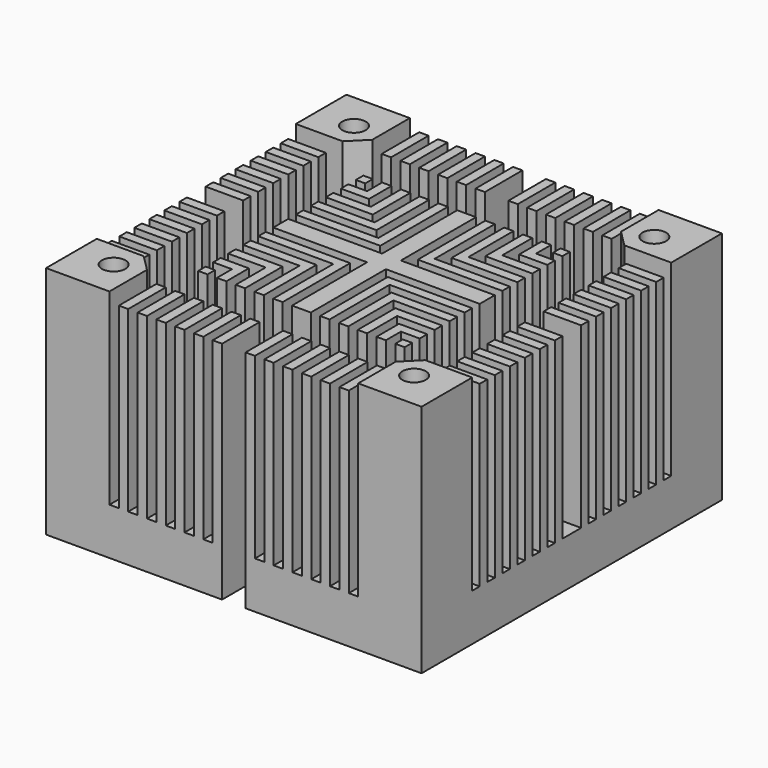
from build123d import *

# Parameters (mm, degrees)
PAD009_DEPTH          = 5
SKETCH015_W           = 2.75
SKETCH015_H           = 26.5
POCKET_DEPTH          = 5
MIRROREDSKETCH_W      = 2.75
MIRROREDSKETCH_H      = 26.5
POCKET001_DEPTH       = 5
SKETCH016_W           = 6.75
SKETCH016_H           = 6.75
PAD010_DEPTH          = 20
MIRROREDSKETCH001_W   = 6.75
MIRROREDSKETCH001_H   = 6.75
PAD011_DEPTH          = 20
MIRROREDSKETCH002_W   = 6.75
MIRROREDSKETCH002_H   = 6.75
PAD012_DEPTH          = 20
MIRROREDSKETCH003_W   = 6.75
MIRROREDSKETCH003_H   = 6.75
PAD013_DEPTH          = 20
SKETCH017_W           = 4
SKETCH017_H           = 1
SKETCH017_W_2         = 1
SKETCH017_H_2         = 5
PAD_DEPTH             = 19
MIRROREDSKETCH004_W   = 4
MIRROREDSKETCH004_H   = 1
MIRROREDSKETCH004_W_2 = 1
MIRROREDSKETCH004_H_2 = 5
PAD014_DEPTH          = 19
MIRROREDSKETCH005_W   = 4
MIRROREDSKETCH005_H   = 1
MIRROREDSKETCH005_W_2 = 1
MIRROREDSKETCH005_H_2 = 5
PAD015_DEPTH          = 19
MIRROREDSKETCH006_W   = 4
MIRROREDSKETCH006_H   = 1
MIRROREDSKETCH006_W_2 = 1
MIRROREDSKETCH006_H_2 = 5
PAD016_DEPTH          = 19
SKETCH_R              = 1.25
HOLE_DEPTH            = 10
HOLE_TIPS_R           = 1.25
MIRROREDSKETCH007_R   = 1.25
HOLE001_DEPTH         = 10
HOLE001_TIPS_R        = 1.25
MIRROREDSKETCH008_R   = 1.25
HOLE002_DEPTH         = 10
HOLE002_TIPS_R        = 1.25
MIRROREDSKETCH009_R   = 1.25
HOLE003_DEPTH         = 10
HOLE003_TIPS_R        = 1.25
POCKET002_DEPTH       = 20
POCKET003_DEPTH       = 20
POCKET004_DEPTH       = 20
POCKET005_DEPTH       = 20


with BuildPart() as part:
    # Sketch014 → Pad009 (new body)
    with BuildSketch(Plane.XY):
        Polygon((-1.25, -13.25), (-1.25, -20), (-20, -20), (-20, 20), (-1.25, 20), (-1.25, 13.25), (1.25, 13.25), (1.25, 20), (20, 20), (20, -20), (1.25, -20), (1.25, -13.25), align=None)
    extrude(amount=PAD009_DEPTH)

    # Sketch015 (on Face14 of Pad009) → Pocket (cut)
    with BuildSketch(Plane.XY.offset(5)):
        with Locations((-14.625, 0)):
            Rectangle(SKETCH015_W, SKETCH015_H)
    extrude(amount=-POCKET_DEPTH, mode=Mode.SUBTRACT)

    # MirroredSketch → Pocket001 (cut)
    with BuildSketch(Plane.XY.offset(5)):
        with Locations((14.625, 0)):
            Rectangle(MIRROREDSKETCH_W, MIRROREDSKETCH_H)
    extrude(amount=-POCKET001_DEPTH, mode=Mode.SUBTRACT)

    # Sketch016 (on Face14 of Pad009) → Pad010 (join)
    with BuildSketch(Plane.XY.offset(5)):
        with Locations((-16.625, 16.625)):
            Rectangle(SKETCH016_W, SKETCH016_H)
    extrude(amount=PAD010_DEPTH)

    # MirroredSketch001 → Pad011 (join)
    with BuildSketch(Plane.XY.offset(5)):
        with Locations((16.625, 16.625)):
            Rectangle(MIRROREDSKETCH001_W, MIRROREDSKETCH001_H)
    extrude(amount=PAD011_DEPTH)

    # MirroredSketch002 → Pad012 (join)
    with BuildSketch(Plane.XY.offset(5)):
        with Locations((16.625, -16.625)):
            Rectangle(MIRROREDSKETCH002_W, MIRROREDSKETCH002_H)
    extrude(amount=PAD012_DEPTH)

    # MirroredSketch003 → Pad013 (join)
    with BuildSketch(Plane.XY.offset(5)):
        with Locations((-16.625, -16.625)):
            Rectangle(MIRROREDSKETCH003_W, MIRROREDSKETCH003_H)
    extrude(amount=PAD013_DEPTH)

    # Sketch017 (on Face14 of Pad009) → Pad (join)
    with BuildSketch(Plane.XY.offset(5)):
        with Locations((-18, 11.75)):
            Rectangle(SKETCH017_W, SKETCH017_H)
        with Locations((-18, 9.75)):
            Rectangle(SKETCH017_W, SKETCH017_H)
        with Locations((-18, 7.75)):
            Rectangle(SKETCH017_W, SKETCH017_H)
        with Locations((-18, 5.75)):
            Rectangle(SKETCH017_W, SKETCH017_H)
        with Locations((-1.75, 17.5)):
            Rectangle(SKETCH017_W_2, SKETCH017_H_2)
        with Locations((-3.75, 17.5)):
            Rectangle(SKETCH017_W_2, SKETCH017_H_2)
        with Locations((-5.75, 17.5)):
            Rectangle(SKETCH017_W_2, SKETCH017_H_2)
        with Locations((-7.75, 17.5)):
            Rectangle(SKETCH017_W_2, SKETCH017_H_2)
        with Locations((-9.75, 17.5)):
            Rectangle(SKETCH017_W_2, SKETCH017_H_2)
        with Locations((-11.75, 17.5)):
            Rectangle(SKETCH017_W_2, SKETCH017_H_2)
        with Locations((-18, 3.75)):
            Rectangle(SKETCH017_W, SKETCH017_H)
        with Locations((-18, 1.75)):
            Rectangle(SKETCH017_W, SKETCH017_H)
        Polygon((-1, 1), (-1, 11), (0, 11), (0, 0), (-11, 0), (-11, 1), align=None)
        Polygon((-3, 11), (-2, 11), (-2, 2), (-11, 2), (-11, 3), (-3, 3), align=None)
        Polygon((-11, 5), (-11, 4), (-4, 4), (-4, 11), (-5, 11), (-5, 5), align=None)
        Polygon((-11, 6), (-6, 6), (-6, 11), (-7, 11), (-7, 7), (-11, 7), align=None)
        Polygon((-8, 11), (-8, 8), (-11, 8), (-11, 9), (-9, 9), (-9, 11), align=None)
        with Locations((-10.5, 10.5)):
            Rectangle(SKETCH017_W_2, SKETCH017_H)
    extrude(amount=PAD_DEPTH)

    # MirroredSketch004 → Pad014 (join)
    with BuildSketch(Plane.XY.offset(5)):
        with Locations((-18, -11.75)):
            Rectangle(MIRROREDSKETCH004_W, MIRROREDSKETCH004_H)
        with Locations((-18, -9.75)):
            Rectangle(MIRROREDSKETCH004_W, MIRROREDSKETCH004_H)
        with Locations((-18, -7.75)):
            Rectangle(MIRROREDSKETCH004_W, MIRROREDSKETCH004_H)
        with Locations((-18, -5.75)):
            Rectangle(MIRROREDSKETCH004_W, MIRROREDSKETCH004_H)
        with Locations((-1.75, -17.5)):
            Rectangle(MIRROREDSKETCH004_W_2, MIRROREDSKETCH004_H_2)
        with Locations((-3.75, -17.5)):
            Rectangle(MIRROREDSKETCH004_W_2, MIRROREDSKETCH004_H_2)
        with Locations((-5.75, -17.5)):
            Rectangle(MIRROREDSKETCH004_W_2, MIRROREDSKETCH004_H_2)
        with Locations((-7.75, -17.5)):
            Rectangle(MIRROREDSKETCH004_W_2, MIRROREDSKETCH004_H_2)
        with Locations((-9.75, -17.5)):
            Rectangle(MIRROREDSKETCH004_W_2, MIRROREDSKETCH004_H_2)
        with Locations((-11.75, -17.5)):
            Rectangle(MIRROREDSKETCH004_W_2, MIRROREDSKETCH004_H_2)
        with Locations((-18, -3.75)):
            Rectangle(MIRROREDSKETCH004_W, MIRROREDSKETCH004_H)
        with Locations((-18, -1.75)):
            Rectangle(MIRROREDSKETCH004_W, MIRROREDSKETCH004_H)
        Polygon((-1, -1), (-1, -11), (0, -11), (0, 0), (-11, 0), (-11, -1), align=None)
        Polygon((-3, -11), (-2, -11), (-2, -2), (-11, -2), (-11, -3), (-3, -3), align=None)
        Polygon((-11, -5), (-11, -4), (-4, -4), (-4, -11), (-5, -11), (-5, -5), align=None)
        Polygon((-11, -6), (-6, -6), (-6, -11), (-7, -11), (-7, -7), (-11, -7), align=None)
        Polygon((-8, -11), (-8, -8), (-11, -8), (-11, -9), (-9, -9), (-9, -11), align=None)
        with Locations((-10.5, -10.5)):
            Rectangle(MIRROREDSKETCH004_W_2, MIRROREDSKETCH004_H)
    extrude(amount=PAD014_DEPTH)

    # MirroredSketch005 → Pad015 (join)
    with BuildSketch(Plane.XY.offset(5)):
        with Locations((18, 11.75)):
            Rectangle(MIRROREDSKETCH005_W, MIRROREDSKETCH005_H)
        with Locations((18, 9.75)):
            Rectangle(MIRROREDSKETCH005_W, MIRROREDSKETCH005_H)
        with Locations((18, 7.75)):
            Rectangle(MIRROREDSKETCH005_W, MIRROREDSKETCH005_H)
        with Locations((18, 5.75)):
            Rectangle(MIRROREDSKETCH005_W, MIRROREDSKETCH005_H)
        with Locations((1.75, 17.5)):
            Rectangle(MIRROREDSKETCH005_W_2, MIRROREDSKETCH005_H_2)
        with Locations((3.75, 17.5)):
            Rectangle(MIRROREDSKETCH005_W_2, MIRROREDSKETCH005_H_2)
        with Locations((5.75, 17.5)):
            Rectangle(MIRROREDSKETCH005_W_2, MIRROREDSKETCH005_H_2)
        with Locations((7.75, 17.5)):
            Rectangle(MIRROREDSKETCH005_W_2, MIRROREDSKETCH005_H_2)
        with Locations((9.75, 17.5)):
            Rectangle(MIRROREDSKETCH005_W_2, MIRROREDSKETCH005_H_2)
        with Locations((11.75, 17.5)):
            Rectangle(MIRROREDSKETCH005_W_2, MIRROREDSKETCH005_H_2)
        with Locations((18, 3.75)):
            Rectangle(MIRROREDSKETCH005_W, MIRROREDSKETCH005_H)
        with Locations((18, 1.75)):
            Rectangle(MIRROREDSKETCH005_W, MIRROREDSKETCH005_H)
        Polygon((1, 1), (1, 11), (0, 11), (0, 0), (11, 0), (11, 1), align=None)
        Polygon((3, 11), (2, 11), (2, 2), (11, 2), (11, 3), (3, 3), align=None)
        Polygon((11, 5), (11, 4), (4, 4), (4, 11), (5, 11), (5, 5), align=None)
        Polygon((11, 6), (6, 6), (6, 11), (7, 11), (7, 7), (11, 7), align=None)
        Polygon((8, 11), (8, 8), (11, 8), (11, 9), (9, 9), (9, 11), align=None)
        with Locations((10.5, 10.5)):
            Rectangle(MIRROREDSKETCH005_W_2, MIRROREDSKETCH005_H)
    extrude(amount=PAD015_DEPTH)

    # MirroredSketch006 → Pad016 (join)
    with BuildSketch(Plane.XY.offset(5)):
        with Locations((18, -11.75)):
            Rectangle(MIRROREDSKETCH006_W, MIRROREDSKETCH006_H)
        with Locations((18, -9.75)):
            Rectangle(MIRROREDSKETCH006_W, MIRROREDSKETCH006_H)
        with Locations((18, -7.75)):
            Rectangle(MIRROREDSKETCH006_W, MIRROREDSKETCH006_H)
        with Locations((18, -5.75)):
            Rectangle(MIRROREDSKETCH006_W, MIRROREDSKETCH006_H)
        with Locations((1.75, -17.5)):
            Rectangle(MIRROREDSKETCH006_W_2, MIRROREDSKETCH006_H_2)
        with Locations((3.75, -17.5)):
            Rectangle(MIRROREDSKETCH006_W_2, MIRROREDSKETCH006_H_2)
        with Locations((5.75, -17.5)):
            Rectangle(MIRROREDSKETCH006_W_2, MIRROREDSKETCH006_H_2)
        with Locations((7.75, -17.5)):
            Rectangle(MIRROREDSKETCH006_W_2, MIRROREDSKETCH006_H_2)
        with Locations((9.75, -17.5)):
            Rectangle(MIRROREDSKETCH006_W_2, MIRROREDSKETCH006_H_2)
        with Locations((11.75, -17.5)):
            Rectangle(MIRROREDSKETCH006_W_2, MIRROREDSKETCH006_H_2)
        with Locations((18, -3.75)):
            Rectangle(MIRROREDSKETCH006_W, MIRROREDSKETCH006_H)
        with Locations((18, -1.75)):
            Rectangle(MIRROREDSKETCH006_W, MIRROREDSKETCH006_H)
        Polygon((1, -1), (1, -11), (0, -11), (0, 0), (11, 0), (11, -1), align=None)
        Polygon((3, -11), (2, -11), (2, -2), (11, -2), (11, -3), (3, -3), align=None)
        Polygon((11, -5), (11, -4), (4, -4), (4, -11), (5, -11), (5, -5), align=None)
        Polygon((11, -6), (6, -6), (6, -11), (7, -11), (7, -7), (11, -7), align=None)
        Polygon((8, -11), (8, -8), (11, -8), (11, -9), (9, -9), (9, -11), align=None)
        with Locations((10.5, -10.5)):
            Rectangle(MIRROREDSKETCH006_W_2, MIRROREDSKETCH006_H)
    extrude(amount=PAD016_DEPTH)

    # Sketch (on Face358 of Pad016) → Hole (cut)
    with BuildSketch(Plane.XY.offset(25)):
        with Locations((-16, 16)):
            Circle(SKETCH_R)
    extrude(amount=-HOLE_DEPTH, mode=Mode.SUBTRACT)

    # Hole tips → Hole tip 1 section 0
    with BuildSketch(Plane.XY.offset(15), mode=Mode.PRIVATE) as hole_tip_1_s0:
        with Locations((-16, 16)):
            Circle(HOLE_TIPS_R)
    loft([hole_tip_1_s0.sketch, Vertex(-16, 16, 14.248924)], mode=Mode.SUBTRACT)

    # MirroredSketch007 → Hole001 (cut)
    with BuildSketch(Plane.XY.offset(25)):
        with Locations((-16, -16)):
            Circle(MIRROREDSKETCH007_R)
    extrude(amount=-HOLE001_DEPTH, mode=Mode.SUBTRACT)

    # Hole001 tips → Hole001 tip 1 section 0
    with BuildSketch(Plane.XY.offset(15), mode=Mode.PRIVATE) as hole001_tip_1_s0:
        with Locations((-16, -16)):
            Circle(HOLE001_TIPS_R)
    loft([hole001_tip_1_s0.sketch, Vertex(-16, -16, 14.248924)], mode=Mode.SUBTRACT)

    # MirroredSketch008 → Hole002 (cut)
    with BuildSketch(Plane.XY.offset(25)):
        with Locations((16, 16)):
            Circle(MIRROREDSKETCH008_R)
    extrude(amount=-HOLE002_DEPTH, mode=Mode.SUBTRACT)

    # Hole002 tips → Hole002 tip 1 section 0
    with BuildSketch(Plane.XY.offset(15), mode=Mode.PRIVATE) as hole002_tip_1_s0:
        with Locations((16, 16)):
            Circle(HOLE002_TIPS_R)
    loft([hole002_tip_1_s0.sketch, Vertex(16, 16, 14.248924)], mode=Mode.SUBTRACT)

    # MirroredSketch009 → Hole003 (cut)
    with BuildSketch(Plane.XY.offset(25)):
        with Locations((16, -16)):
            Circle(MIRROREDSKETCH009_R)
    extrude(amount=-HOLE003_DEPTH, mode=Mode.SUBTRACT)

    # Hole003 tips → Hole003 tip 1 section 0
    with BuildSketch(Plane.XY.offset(15), mode=Mode.PRIVATE) as hole003_tip_1_s0:
        with Locations((16, -16)):
            Circle(HOLE003_TIPS_R)
    loft([hole003_tip_1_s0.sketch, Vertex(16, -16, 14.248924)], mode=Mode.SUBTRACT)

    # Sketch018 (on Face358 of Hole003) → Pocket002 (cut)
    with BuildSketch(Plane.XY.offset(25)):
        Polygon((-13.25, -13.25), (-15, -13.25), (-13.25, -15), align=None)
    extrude(amount=-POCKET002_DEPTH, mode=Mode.SUBTRACT)

    # MirroredSketch010 → Pocket003 (cut)
    with BuildSketch(Plane.XY.offset(25)):
        Polygon((13.25, 13.25), (15, 13.25), (13.25, 15), align=None)
    extrude(amount=-POCKET003_DEPTH, mode=Mode.SUBTRACT)

    # MirroredSketch011 → Pocket004 (cut)
    with BuildSketch(Plane.XY.offset(25)):
        Polygon((-13.25, 13.25), (-15, 13.25), (-13.25, 15), align=None)
    extrude(amount=-POCKET004_DEPTH, mode=Mode.SUBTRACT)

    # MirroredSketch012 → Pocket005 (cut)
    with BuildSketch(Plane.XY.offset(25)):
        Polygon((13.25, -13.25), (15, -13.25), (13.25, -15), align=None)
    extrude(amount=-POCKET005_DEPTH, mode=Mode.SUBTRACT)


solid = part.part
